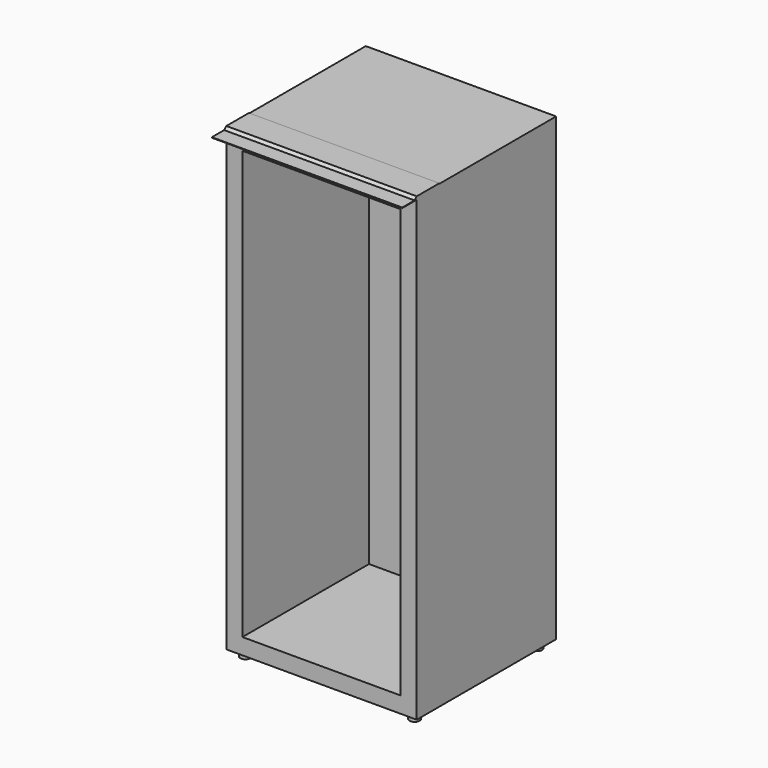
from build123d import *

# Parameters (mm, degrees)
F0_W      = 600.075
F0_H      = 1450.975
F1_DEPTH  = 274.6375
F2_T      = -50.8
F4_DEPTH  = 22.225
F5_W      = 600.075
F5_H      = 1.5875
F6_DEPTH  = 57.15
F7_W      = 600.075
F7_H      = 88.9
F8_DEPTH  = 1.5875
F10_DEPTH = 600.075


with BuildPart() as f1:
    # F0 (on Front) → F1 (new body, symmetric)
    with BuildSketch(Plane.XZ):
        Rectangle(F0_W, F0_H)
    extrude(amount=F1_DEPTH, both=True)

    # F2
    f2_openings = [f1.faces().sort_by_distance(p)[0] for p in [
        (0, -274.6375, 0),
    ]]
    offset(amount=F2_T, openings=f2_openings)

    # F3 (on face) → F4 (join)
    with BuildSketch(Plane(origin=(0, 0, -725.4875), x_dir=(1, 0, 0), z_dir=(0, 0, -1))):
        with BuildLine():
            ThreePointArc((-250.825, 241.3), (-277.92532, 252.52532), (-266.7, 225.425))
            Line((-266.7, 225.425), (-266.7, 241.3))
            Line((-266.7, 241.3), (-250.825, 241.3))
        make_face()
        with BuildLine():
            Line((-266.7, 241.3), (-266.7, 225.425))
            ThreePointArc((-266.7, 225.425), (-255.47468, 230.07468), (-250.825, 241.3))
            Line((-250.825, 241.3), (-266.7, 241.3))
        make_face()
        with BuildLine():
            ThreePointArc((250.825, 241.3), (255.47468, 230.07468), (266.7, 225.425))
            Line((266.7, 225.425), (266.7, 241.3))
            Line((266.7, 241.3), (250.825, 241.3))
        make_face()
        with BuildLine():
            Line((266.7, 241.3), (266.7, 225.425))
            ThreePointArc((266.7, 225.425), (277.92532, 230.07468), (282.575, 241.3))
            ThreePointArc((282.575, 241.3), (266.7, 257.175), (250.825, 241.3))
            Line((250.825, 241.3), (266.7, 241.3))
        make_face()
        with BuildLine():
            ThreePointArc((266.7, -225.425), (255.47468, -230.07468), (250.825, -241.3))
            Line((250.825, -241.3), (266.7, -241.3))
            Line((266.7, -241.3), (266.7, -225.425))
        make_face()
        with BuildLine():
            Line((266.7, -241.3), (250.825, -241.3))
            ThreePointArc((250.825, -241.3), (266.7, -257.175), (282.575, -241.3))
            ThreePointArc((282.575, -241.3), (277.92532, -230.07468), (266.7, -225.425))
            Line((266.7, -225.425), (266.7, -241.3))
        make_face()
        with BuildLine():
            Line((-266.7, -241.3), (-250.825, -241.3))
            ThreePointArc((-250.825, -241.3), (-255.47468, -230.07468), (-266.7, -225.425))
            Line((-266.7, -225.425), (-266.7, -241.3))
        make_face()
        with BuildLine():
            ThreePointArc((-266.7, -225.425), (-277.92532, -252.52532), (-250.825, -241.3))
            Line((-250.825, -241.3), (-266.7, -241.3))
            Line((-266.7, -241.3), (-266.7, -225.425))
        make_face()
    extrude(amount=F4_DEPTH)

    # F5 (on face) → F6 (join)
    with BuildSketch(Plane.XZ.offset(274.6375)):
        with Locations((0, 718.34375)):
            Rectangle(F5_W, F5_H)
    extrude(amount=F6_DEPTH)

    # F7 (on face) → F8 (join)
    with BuildSketch(Plane.XY.offset(725.4875)):
        with Locations((0, -230.1875)):
            Rectangle(F7_W, F7_H)
    extrude(amount=F8_DEPTH)

    # F9 (on face) → F10 (join)
    with BuildSketch(Plane.YZ.offset(300.0375)):
        Polygon((-274.6375, 719.1375), (-274.6375, 727.075), (-283.236563, 719.1375), align=None)
    extrude(amount=-F10_DEPTH)


solid = f1.part
